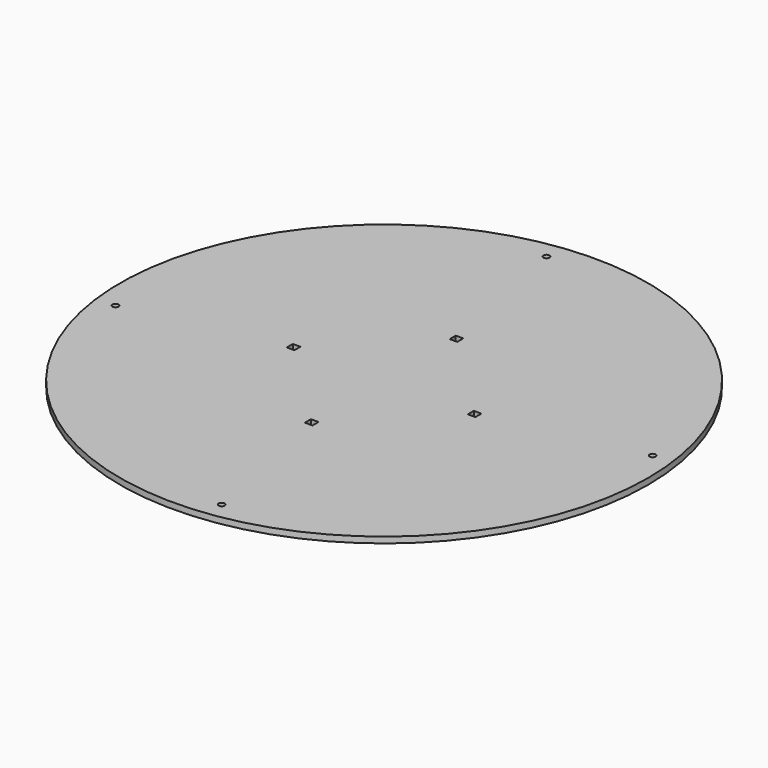
from build123d import *

# Parameters (mm, degrees)
F0_R     = 175
F0_R_2   = 2
F0_W     = 5
F0_H     = 5
F1_DEPTH = 4


with BuildPart() as f1:
    # F0 (on Top) → F1 (new body)
    with BuildSketch(Plane.XY):
        Circle(F0_R)
        with Locations((-161.10979, -21.210506)):
            Circle(F0_R_2, mode=Mode.SUBTRACT)
        with Locations((21.210506, -161.10979)):
            Circle(F0_R_2, mode=Mode.SUBTRACT)
        with Locations((0, -60)):
            Rectangle(F0_W, F0_H, mode=Mode.SUBTRACT)
        with Locations((-60, 0)):
            Rectangle(F0_W, F0_H, mode=Mode.SUBTRACT)
        with Locations((-21.210506, 161.10979)):
            Circle(F0_R_2, mode=Mode.SUBTRACT)
        with Locations((60, 0)):
            Rectangle(F0_W, F0_H, mode=Mode.SUBTRACT)
        with Locations((0, 60)):
            Rectangle(F0_W, F0_H, mode=Mode.SUBTRACT)
        with Locations((161.10979, 21.210506)):
            Circle(F0_R_2, mode=Mode.SUBTRACT)
    extrude(amount=F1_DEPTH)


solid = f1.part
